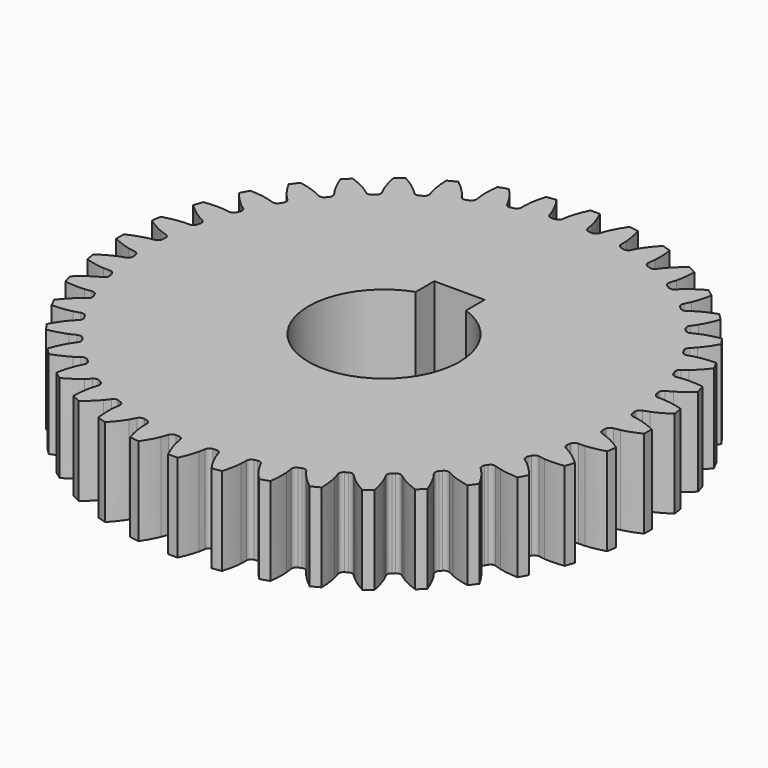
from build123d import *

# Parameters (mm, degrees)
PAD_DEPTH    = 7
POCKET_DEPTH = 7.001


with BuildPart() as part:
    # InvoluteGear → Pad (new body)
    with BuildSketch(Plane.XY):
        with BuildLine():
            add(Edge.make_bspline(
                [(19.042473, -1.000978), (19.169169, -0.986018), (19.338507, -0.958425), (19.548431, -0.907939)],
                knots=[0, 0, 0, 0, 1, 1, 1, 1], degree=3))
            add(Edge.make_bspline(
                [(19.548431, -0.907939), (19.917143, -0.81916), (20.406916, -0.66089), (20.997074, -0.380116)],
                knots=[0, 0, 0, 0, 1, 1, 1, 1], degree=3))
            ThreePointArc((20.997074, -0.380116), (21.000257, 0.0001), (20.996556, 0.380311))
            add(Edge.make_bspline(
                [(20.996556, 0.380311), (20.406916, 0.66089), (19.917143, 0.81916), (19.548431, 0.907939)],
                knots=[0, 0, 0, 0, 1, 1, 1, 1], degree=3))
            add(Edge.make_bspline(
                [(19.548431, 0.907939), (19.338507, 0.958425), (19.169169, 0.986018), (19.04253, 1.000968)],
                knots=[0, 0, 0, 0, 1, 1, 1, 1], degree=3))
            ThreePointArc((19.04253, 1.000968), (18.807705, 1.114267), (18.701175, 1.352239))
            ThreePointArc((18.701175, 1.352239), (18.6922, 1.471108), (18.682469, 1.589918))
            ThreePointArc((18.682469, 1.589918), (18.750446, 1.841599), (18.964616, 1.990245))
            add(Edge.make_bspline(
                [(18.964616, 1.990245), (19.087412, 2.02484), (19.250348, 2.078584), (19.44979, 2.161288)],
                knots=[0, 0, 0, 0, 1, 1, 1, 1], degree=3))
            add(Edge.make_bspline(
                [(19.44979, 2.161288), (19.800075, 2.306653), (20.259059, 2.539592), (20.798029, 2.90923)],
                knots=[0, 0, 0, 0, 1, 1, 1, 1], degree=3))
            ThreePointArc((20.798029, 2.90923), (20.741694, 3.285263), (20.67856, 3.660214))
            add(Edge.make_bspline(
                [(20.67856, 3.660214), (20.052287, 3.845098), (19.543786, 3.924803), (19.165724, 3.954809)],
                knots=[0, 0, 0, 0, 1, 1, 1, 1], degree=3))
            add(Edge.make_bspline(
                [(19.165724, 3.954809), (18.950487, 3.971834), (18.778918, 3.972597), (18.651499, 3.967552)],
                knots=[0, 0, 0, 0, 1, 1, 1, 1], degree=3))
            ThreePointArc((18.651499, 3.967552), (18.401841, 4.042722), (18.259396, 4.261099))
            ThreePointArc((18.259396, 4.261099), (18.231936, 4.377101), (18.203739, 4.492925))
            ThreePointArc((18.203739, 4.492925), (18.231507, 4.752142), (18.419787, 4.932461))
            add(Edge.make_bspline(
                [(18.419787, 4.932461), (18.53566, 4.98584), (18.688182, 5.064411), (18.872231, 5.177296)],
                knots=[0, 0, 0, 0, 1, 1, 1, 1], degree=3))
            add(Edge.make_bspline(
                [(18.872231, 5.177296), (19.195463, 5.375668), (19.612356, 5.677541), (20.086867, 6.126941)],
                knots=[0, 0, 0, 0, 1, 1, 1, 1], degree=3))
            ThreePointArc((20.086867, 6.126941), (19.972401, 6.489531), (19.851389, 6.84999))
            add(Edge.make_bspline(
                [(19.851389, 6.84999), (19.203904, 6.934627), (18.689195, 6.933803), (18.311094, 6.904298)],
                knots=[0, 0, 0, 0, 1, 1, 1, 1], degree=3))
            add(Edge.make_bspline(
                [(18.311094, 6.904298), (18.095843, 6.887443), (17.926267, 6.861358), (17.801206, 6.836442)],
                knots=[0, 0, 0, 0, 1, 1, 1, 1], degree=3))
            ThreePointArc((17.801206, 6.836442), (17.542863, 6.871631), (17.36801, 7.065037))
            ThreePointArc((17.36801, 7.065037), (17.322741, 7.175314), (17.276773, 7.285302))
            ThreePointArc((17.276773, 7.285302), (17.263649, 7.545671), (17.421402, 7.753224))
            add(Edge.make_bspline(
                [(17.421402, 7.753224), (17.527498, 7.824072), (17.665851, 7.925536), (17.829975, 8.065822)],
                knots=[0, 0, 0, 0, 1, 1, 1, 1], degree=3))
            add(Edge.make_bspline(
                [(17.829975, 8.065822), (18.118196, 8.312317), (18.482733, 8.675689), (18.881099, 9.193786)],
                knots=[0, 0, 0, 0, 1, 1, 1, 1], degree=3))
            ThreePointArc((18.881099, 9.193786), (18.711321, 9.534006), (18.535411, 9.871097))
            add(Edge.make_bspline(
                [(18.535411, 9.871097), (17.882658, 9.853403), (17.374414, 9.772071), (17.005584, 9.683781)],
                knots=[0, 0, 0, 0, 1, 1, 1, 1], degree=3))
            add(Edge.make_bspline(
                [(17.005584, 9.683781), (16.79562, 9.633461), (16.632212, 9.581169), (16.512588, 9.536996)],
                knots=[0, 0, 0, 0, 1, 1, 1, 1], degree=3))
            ThreePointArc((16.512588, 9.536996), (16.251921, 9.531339), (16.048965, 9.69501))
            ThreePointArc((16.048965, 9.69501), (15.987003, 9.796848), (15.924395, 9.898291))
            ThreePointArc((15.924395, 9.898291), (15.870701, 10.153401), (15.994044, 10.383077))
            add(Edge.make_bspline(
                [(15.994044, 10.383077), (16.087751, 10.46965), (16.208529, 10.591507), (16.348686, 10.755741)],
                knots=[0, 0, 0, 0, 1, 1, 1, 1], degree=3))
            add(Edge.make_bspline(
                [(16.348686, 10.755741), (16.594798, 11.044289), (16.898003, 11.460213), (17.210417, 12.03425)],
                knots=[0, 0, 0, 0, 1, 1, 1, 1], degree=3))
            ThreePointArc((17.210417, 12.03425), (16.989506, 12.343722), (16.763029, 12.649144))
            add(Edge.make_bspline(
                [(16.763029, 12.649144), (16.121081, 12.529555), (15.631817, 12.369718), (15.28134, 12.224817)],
                knots=[0, 0, 0, 0, 1, 1, 1, 1], degree=3))
            add(Edge.make_bspline(
                [(15.28134, 12.224817), (15.081833, 12.142271), (14.928617, 12.06506), (14.817376, 12.002718)],
                knots=[0, 0, 0, 0, 1, 1, 1, 1], degree=3))
            ThreePointArc((14.817376, 12.002718), (14.560803, 11.956353), (14.334742, 12.086259))
            ThreePointArc((14.334742, 12.086259), (14.257612, 12.177151), (14.179905, 12.26755))
            ThreePointArc((14.179905, 12.26755), (14.086965, 12.51112), (14.17286, 12.757263))
            add(Edge.make_bspline(
                [(14.17286, 12.757263), (14.25187, 12.857429), (14.352098, 12.996681), (14.464838, 13.180818)],
                knots=[0, 0, 0, 0, 1, 1, 1, 1], degree=3))
            add(Edge.make_bspline(
                [(14.464838, 13.180818), (14.662781, 13.504314), (14.897188, 13.962549), (15.115956, 14.578391)],
                knots=[0, 0, 0, 0, 1, 1, 1, 1], degree=3))
            ThreePointArc((15.115956, 14.578391), (14.849354, 14.849495), (14.577886, 15.115728))
            add(Edge.make_bspline(
                [(14.577886, 15.115728), (13.962549, 14.897188), (13.504314, 14.662781), (13.180818, 14.464838)],
                knots=[0, 0, 0, 0, 1, 1, 1, 1], degree=3))
            add(Edge.make_bspline(
                [(13.180818, 14.464838), (12.996681, 14.352098), (12.857429, 14.25187), (12.757311, 14.172893)],
                knots=[0, 0, 0, 0, 1, 1, 1, 1], degree=3))
            ThreePointArc((12.757311, 14.172893), (12.51115, 14.086962), (12.26755, 14.179905))
            ThreePointArc((12.26755, 14.179905), (12.177151, 14.257612), (12.086259, 14.334742))
            ThreePointArc((12.086259, 14.334742), (11.956361, 14.560775), (12.002693, 14.817324))
            add(Edge.make_bspline(
                [(12.002693, 14.817324), (12.06506, 14.928617), (12.142271, 15.081833), (12.224817, 15.28134)],
                knots=[0, 0, 0, 0, 1, 1, 1, 1], degree=3))
            add(Edge.make_bspline(
                [(12.224817, 15.28134), (12.369718, 15.631817), (12.529555, 16.121081), (12.649291, 16.763563)],
                knots=[0, 0, 0, 0, 1, 1, 1, 1], degree=3))
            ThreePointArc((12.649291, 16.763563), (12.343561, 16.989624), (12.033788, 17.210112))
            add(Edge.make_bspline(
                [(12.033788, 17.210112), (11.460213, 16.898003), (11.044289, 16.594798), (10.755741, 16.348686)],
                knots=[0, 0, 0, 0, 1, 1, 1, 1], degree=3))
            add(Edge.make_bspline(
                [(10.755741, 16.348686), (10.591507, 16.208529), (10.46965, 16.087751), (10.383118, 15.994084)],
                knots=[0, 0, 0, 0, 1, 1, 1, 1], degree=3))
            ThreePointArc((10.383118, 15.994084), (10.153431, 15.870703), (9.898291, 15.924395))
            ThreePointArc((9.898291, 15.924395), (9.796848, 15.987003), (9.69501, 16.048965))
            ThreePointArc((9.69501, 16.048965), (9.531351, 16.251894), (9.536979, 16.512533))
            add(Edge.make_bspline(
                [(9.536979, 16.512533), (9.581169, 16.632212), (9.633461, 16.79562), (9.683781, 17.005584)],
                knots=[0, 0, 0, 0, 1, 1, 1, 1], degree=3))
            add(Edge.make_bspline(
                [(9.683781, 17.005584), (9.772071, 17.374414), (9.853403, 17.882658), (9.871158, 18.535961)],
                knots=[0, 0, 0, 0, 1, 1, 1, 1], degree=3))
            ThreePointArc((9.871158, 18.535961), (9.533828, 18.711412), (9.193377, 18.880726))
            add(Edge.make_bspline(
                [(9.193377, 18.880726), (8.675689, 18.482733), (8.312317, 18.118196), (8.065822, 17.829975)],
                knots=[0, 0, 0, 0, 1, 1, 1, 1], degree=3))
            add(Edge.make_bspline(
                [(8.065822, 17.829975), (7.925536, 17.665851), (7.824072, 17.527498), (7.753259, 17.421448)],
                knots=[0, 0, 0, 0, 1, 1, 1, 1], degree=3))
            ThreePointArc((7.753259, 17.421448), (7.5457, 17.263655), (7.285302, 17.276773))
            ThreePointArc((7.285302, 17.276773), (7.175314, 17.322741), (7.065037, 17.36801))
            ThreePointArc((7.065037, 17.36801), (6.871648, 17.542838), (6.836434, 17.801148))
            add(Edge.make_bspline(
                [(6.836434, 17.801148), (6.861358, 17.926267), (6.887443, 18.095843), (6.904298, 18.311094)],
                knots=[0, 0, 0, 0, 1, 1, 1, 1], degree=3))
            add(Edge.make_bspline(
                [(6.904298, 18.311094), (6.933803, 18.689195), (6.934627, 19.203904), (6.849965, 19.851942)],
                knots=[0, 0, 0, 0, 1, 1, 1, 1], degree=3))
            ThreePointArc((6.849965, 19.851942), (6.489341, 19.972462), (6.126595, 20.086434))
            add(Edge.make_bspline(
                [(6.126595, 20.086434), (5.677541, 19.612356), (5.375668, 19.195463), (5.177296, 18.872231)],
                knots=[0, 0, 0, 0, 1, 1, 1, 1], degree=3))
            add(Edge.make_bspline(
                [(5.177296, 18.872231), (5.064411, 18.688182), (4.98584, 18.53566), (4.932489, 18.419838)],
                knots=[0, 0, 0, 0, 1, 1, 1, 1], degree=3))
            ThreePointArc((4.932489, 18.419838), (4.75217, 18.231518), (4.492925, 18.203739))
            ThreePointArc((4.492925, 18.203739), (4.377101, 18.231936), (4.261099, 18.259396))
            ThreePointArc((4.261099, 18.259396), (4.042742, 18.401819), (3.967553, 18.651441))
            add(Edge.make_bspline(
                [(3.967553, 18.651441), (3.972597, 18.778918), (3.971834, 18.950487), (3.954809, 19.165724)],
                knots=[0, 0, 0, 0, 1, 1, 1, 1], degree=3))
            add(Edge.make_bspline(
                [(3.954809, 19.165724), (3.924803, 19.543786), (3.845098, 20.052287), (3.660102, 20.679102)],
                knots=[0, 0, 0, 0, 1, 1, 1, 1], degree=3))
            ThreePointArc((3.660102, 20.679102), (3.285065, 20.741725), (2.908956, 20.797547))
            add(Edge.make_bspline(
                [(2.908956, 20.797547), (2.539592, 20.259059), (2.306653, 19.800075), (2.161288, 19.44979)],
                knots=[0, 0, 0, 0, 1, 1, 1, 1], degree=3))
            add(Edge.make_bspline(
                [(2.161288, 19.44979), (2.078584, 19.250348), (2.02484, 19.087412), (1.990264, 18.96467)],
                knots=[0, 0, 0, 0, 1, 1, 1, 1], degree=3))
            ThreePointArc((1.990264, 18.96467), (1.841625, 18.750461), (1.589918, 18.682469))
            ThreePointArc((1.589918, 18.682469), (1.471108, 18.6922), (1.352239, 18.701175))
            ThreePointArc((1.352239, 18.701175), (1.11429, 18.807687), (1.000978, 19.042473))
            add(Edge.make_bspline(
                [(1.000978, 19.042473), (0.986018, 19.169169), (0.958425, 19.338507), (0.907939, 19.548431)],
                knots=[0, 0, 0, 0, 1, 1, 1, 1], degree=3))
            add(Edge.make_bspline(
                [(0.907939, 19.548431), (0.81916, 19.917143), (0.66089, 20.406916), (0.380116, 20.997074)],
                knots=[0, 0, 0, 0, 1, 1, 1, 1], degree=3))
            ThreePointArc((0.380116, 20.997074), (-0.0001, 21.000257), (-0.380311, 20.996556))
            add(Edge.make_bspline(
                [(-0.380311, 20.996556), (-0.66089, 20.406916), (-0.81916, 19.917143), (-0.907939, 19.548431)],
                knots=[0, 0, 0, 0, 1, 1, 1, 1], degree=3))
            add(Edge.make_bspline(
                [(-0.907939, 19.548431), (-0.958425, 19.338507), (-0.986018, 19.169169), (-1.000968, 19.04253)],
                knots=[0, 0, 0, 0, 1, 1, 1, 1], degree=3))
            ThreePointArc((-1.000968, 19.04253), (-1.114267, 18.807705), (-1.352239, 18.701175))
            ThreePointArc((-1.352239, 18.701175), (-1.471108, 18.6922), (-1.589918, 18.682469))
            ThreePointArc((-1.589918, 18.682469), (-1.841599, 18.750446), (-1.990245, 18.964616))
            add(Edge.make_bspline(
                [(-1.990245, 18.964616), (-2.02484, 19.087412), (-2.078584, 19.250348), (-2.161288, 19.44979)],
                knots=[0, 0, 0, 0, 1, 1, 1, 1], degree=3))
            add(Edge.make_bspline(
                [(-2.161288, 19.44979), (-2.306653, 19.800075), (-2.539592, 20.259059), (-2.90923, 20.798029)],
                knots=[0, 0, 0, 0, 1, 1, 1, 1], degree=3))
            ThreePointArc((-2.90923, 20.798029), (-3.285263, 20.741694), (-3.660214, 20.67856))
            add(Edge.make_bspline(
                [(-3.660214, 20.67856), (-3.845098, 20.052287), (-3.924803, 19.543786), (-3.954809, 19.165724)],
                knots=[0, 0, 0, 0, 1, 1, 1, 1], degree=3))
            add(Edge.make_bspline(
                [(-3.954809, 19.165724), (-3.971834, 18.950487), (-3.972597, 18.778918), (-3.967552, 18.651499)],
                knots=[0, 0, 0, 0, 1, 1, 1, 1], degree=3))
            ThreePointArc((-3.967552, 18.651499), (-4.042722, 18.401841), (-4.261099, 18.259396))
            ThreePointArc((-4.261099, 18.259396), (-4.377101, 18.231936), (-4.492925, 18.203739))
            ThreePointArc((-4.492925, 18.203739), (-4.752142, 18.231507), (-4.932461, 18.419787))
            add(Edge.make_bspline(
                [(-4.932461, 18.419787), (-4.98584, 18.53566), (-5.064411, 18.688182), (-5.177296, 18.872231)],
                knots=[0, 0, 0, 0, 1, 1, 1, 1], degree=3))
            add(Edge.make_bspline(
                [(-5.177296, 18.872231), (-5.375668, 19.195463), (-5.677541, 19.612356), (-6.126941, 20.086867)],
                knots=[0, 0, 0, 0, 1, 1, 1, 1], degree=3))
            ThreePointArc((-6.126941, 20.086867), (-6.489531, 19.972401), (-6.84999, 19.851389))
            add(Edge.make_bspline(
                [(-6.84999, 19.851389), (-6.934627, 19.203904), (-6.933803, 18.689195), (-6.904298, 18.311094)],
                knots=[0, 0, 0, 0, 1, 1, 1, 1], degree=3))
            add(Edge.make_bspline(
                [(-6.904298, 18.311094), (-6.887443, 18.095843), (-6.861358, 17.926267), (-6.836442, 17.801206)],
                knots=[0, 0, 0, 0, 1, 1, 1, 1], degree=3))
            ThreePointArc((-6.836442, 17.801206), (-6.871631, 17.542863), (-7.065037, 17.36801))
            ThreePointArc((-7.065037, 17.36801), (-7.175314, 17.322741), (-7.285302, 17.276773))
            ThreePointArc((-7.285302, 17.276773), (-7.545671, 17.263649), (-7.753224, 17.421402))
            add(Edge.make_bspline(
                [(-7.753224, 17.421402), (-7.824072, 17.527498), (-7.925536, 17.665851), (-8.065822, 17.829975)],
                knots=[0, 0, 0, 0, 1, 1, 1, 1], degree=3))
            add(Edge.make_bspline(
                [(-8.065822, 17.829975), (-8.312317, 18.118196), (-8.675689, 18.482733), (-9.193786, 18.881099)],
                knots=[0, 0, 0, 0, 1, 1, 1, 1], degree=3))
            ThreePointArc((-9.193786, 18.881099), (-9.534006, 18.711321), (-9.871097, 18.535411))
            add(Edge.make_bspline(
                [(-9.871097, 18.535411), (-9.853403, 17.882658), (-9.772071, 17.374414), (-9.683781, 17.005584)],
                knots=[0, 0, 0, 0, 1, 1, 1, 1], degree=3))
            add(Edge.make_bspline(
                [(-9.683781, 17.005584), (-9.633461, 16.79562), (-9.581169, 16.632212), (-9.536996, 16.512588)],
                knots=[0, 0, 0, 0, 1, 1, 1, 1], degree=3))
            ThreePointArc((-9.536996, 16.512588), (-9.531339, 16.251921), (-9.69501, 16.048965))
            ThreePointArc((-9.69501, 16.048965), (-9.796848, 15.987003), (-9.898291, 15.924395))
            ThreePointArc((-9.898291, 15.924395), (-10.153401, 15.870701), (-10.383077, 15.994044))
            add(Edge.make_bspline(
                [(-10.383077, 15.994044), (-10.46965, 16.087751), (-10.591507, 16.208529), (-10.755741, 16.348686)],
                knots=[0, 0, 0, 0, 1, 1, 1, 1], degree=3))
            add(Edge.make_bspline(
                [(-10.755741, 16.348686), (-11.044289, 16.594798), (-11.460213, 16.898003), (-12.03425, 17.210417)],
                knots=[0, 0, 0, 0, 1, 1, 1, 1], degree=3))
            ThreePointArc((-12.03425, 17.210417), (-12.343722, 16.989506), (-12.649144, 16.763029))
            add(Edge.make_bspline(
                [(-12.649144, 16.763029), (-12.529555, 16.121081), (-12.369718, 15.631817), (-12.224817, 15.28134)],
                knots=[0, 0, 0, 0, 1, 1, 1, 1], degree=3))
            add(Edge.make_bspline(
                [(-12.224817, 15.28134), (-12.142271, 15.081833), (-12.06506, 14.928617), (-12.002718, 14.817376)],
                knots=[0, 0, 0, 0, 1, 1, 1, 1], degree=3))
            ThreePointArc((-12.002718, 14.817376), (-11.956353, 14.560803), (-12.086259, 14.334742))
            ThreePointArc((-12.086259, 14.334742), (-12.177151, 14.257612), (-12.26755, 14.179905))
            ThreePointArc((-12.26755, 14.179905), (-12.51112, 14.086965), (-12.757263, 14.17286))
            add(Edge.make_bspline(
                [(-12.757263, 14.17286), (-12.857429, 14.25187), (-12.996681, 14.352098), (-13.180818, 14.464838)],
                knots=[0, 0, 0, 0, 1, 1, 1, 1], degree=3))
            add(Edge.make_bspline(
                [(-13.180818, 14.464838), (-13.504314, 14.662781), (-13.962549, 14.897188), (-14.578391, 15.115956)],
                knots=[0, 0, 0, 0, 1, 1, 1, 1], degree=3))
            ThreePointArc((-14.578391, 15.115956), (-14.849495, 14.849354), (-15.115728, 14.577886))
            add(Edge.make_bspline(
                [(-15.115728, 14.577886), (-14.897188, 13.962549), (-14.662781, 13.504314), (-14.464838, 13.180818)],
                knots=[0, 0, 0, 0, 1, 1, 1, 1], degree=3))
            add(Edge.make_bspline(
                [(-14.464838, 13.180818), (-14.352098, 12.996681), (-14.25187, 12.857429), (-14.172893, 12.757311)],
                knots=[0, 0, 0, 0, 1, 1, 1, 1], degree=3))
            ThreePointArc((-14.172893, 12.757311), (-14.086962, 12.51115), (-14.179905, 12.26755))
            ThreePointArc((-14.179905, 12.26755), (-14.257612, 12.177151), (-14.334742, 12.086259))
            ThreePointArc((-14.334742, 12.086259), (-14.560775, 11.956361), (-14.817324, 12.002693))
            add(Edge.make_bspline(
                [(-14.817324, 12.002693), (-14.928617, 12.06506), (-15.081833, 12.142271), (-15.28134, 12.224817)],
                knots=[0, 0, 0, 0, 1, 1, 1, 1], degree=3))
            add(Edge.make_bspline(
                [(-15.28134, 12.224817), (-15.631817, 12.369718), (-16.121081, 12.529555), (-16.763563, 12.649291)],
                knots=[0, 0, 0, 0, 1, 1, 1, 1], degree=3))
            ThreePointArc((-16.763563, 12.649291), (-16.989624, 12.343561), (-17.210112, 12.033788))
            add(Edge.make_bspline(
                [(-17.210112, 12.033788), (-16.898003, 11.460213), (-16.594798, 11.044289), (-16.348686, 10.755741)],
                knots=[0, 0, 0, 0, 1, 1, 1, 1], degree=3))
            add(Edge.make_bspline(
                [(-16.348686, 10.755741), (-16.208529, 10.591507), (-16.087751, 10.46965), (-15.994084, 10.383118)],
                knots=[0, 0, 0, 0, 1, 1, 1, 1], degree=3))
            ThreePointArc((-15.994084, 10.383118), (-15.870703, 10.153431), (-15.924395, 9.898291))
            ThreePointArc((-15.924395, 9.898291), (-15.987003, 9.796848), (-16.048965, 9.69501))
            ThreePointArc((-16.048965, 9.69501), (-16.251894, 9.531351), (-16.512533, 9.536979))
            add(Edge.make_bspline(
                [(-16.512533, 9.536979), (-16.632212, 9.581169), (-16.79562, 9.633461), (-17.005584, 9.683781)],
                knots=[0, 0, 0, 0, 1, 1, 1, 1], degree=3))
            add(Edge.make_bspline(
                [(-17.005584, 9.683781), (-17.374414, 9.772071), (-17.882658, 9.853403), (-18.535961, 9.871158)],
                knots=[0, 0, 0, 0, 1, 1, 1, 1], degree=3))
            ThreePointArc((-18.535961, 9.871158), (-18.711412, 9.533828), (-18.880726, 9.193377))
            add(Edge.make_bspline(
                [(-18.880726, 9.193377), (-18.482733, 8.675689), (-18.118196, 8.312317), (-17.829975, 8.065822)],
                knots=[0, 0, 0, 0, 1, 1, 1, 1], degree=3))
            add(Edge.make_bspline(
                [(-17.829975, 8.065822), (-17.665851, 7.925536), (-17.527498, 7.824072), (-17.421448, 7.753259)],
                knots=[0, 0, 0, 0, 1, 1, 1, 1], degree=3))
            ThreePointArc((-17.421448, 7.753259), (-17.263655, 7.5457), (-17.276773, 7.285302))
            ThreePointArc((-17.276773, 7.285302), (-17.322741, 7.175314), (-17.36801, 7.065037))
            ThreePointArc((-17.36801, 7.065037), (-17.542838, 6.871648), (-17.801148, 6.836434))
            add(Edge.make_bspline(
                [(-17.801148, 6.836434), (-17.926267, 6.861358), (-18.095843, 6.887443), (-18.311094, 6.904298)],
                knots=[0, 0, 0, 0, 1, 1, 1, 1], degree=3))
            add(Edge.make_bspline(
                [(-18.311094, 6.904298), (-18.689195, 6.933803), (-19.203904, 6.934627), (-19.851942, 6.849965)],
                knots=[0, 0, 0, 0, 1, 1, 1, 1], degree=3))
            ThreePointArc((-19.851942, 6.849965), (-19.972462, 6.489341), (-20.086434, 6.126595))
            add(Edge.make_bspline(
                [(-20.086434, 6.126595), (-19.612356, 5.677541), (-19.195463, 5.375668), (-18.872231, 5.177296)],
                knots=[0, 0, 0, 0, 1, 1, 1, 1], degree=3))
            add(Edge.make_bspline(
                [(-18.872231, 5.177296), (-18.688182, 5.064411), (-18.53566, 4.98584), (-18.419838, 4.932489)],
                knots=[0, 0, 0, 0, 1, 1, 1, 1], degree=3))
            ThreePointArc((-18.419838, 4.932489), (-18.231518, 4.75217), (-18.203739, 4.492925))
            ThreePointArc((-18.203739, 4.492925), (-18.231936, 4.377101), (-18.259396, 4.261099))
            ThreePointArc((-18.259396, 4.261099), (-18.401819, 4.042742), (-18.651441, 3.967553))
            add(Edge.make_bspline(
                [(-18.651441, 3.967553), (-18.778918, 3.972597), (-18.950487, 3.971834), (-19.165724, 3.954809)],
                knots=[0, 0, 0, 0, 1, 1, 1, 1], degree=3))
            add(Edge.make_bspline(
                [(-19.165724, 3.954809), (-19.543786, 3.924803), (-20.052287, 3.845098), (-20.679102, 3.660102)],
                knots=[0, 0, 0, 0, 1, 1, 1, 1], degree=3))
            ThreePointArc((-20.679102, 3.660102), (-20.741725, 3.285065), (-20.797547, 2.908956))
            add(Edge.make_bspline(
                [(-20.797547, 2.908956), (-20.259059, 2.539592), (-19.800075, 2.306653), (-19.44979, 2.161288)],
                knots=[0, 0, 0, 0, 1, 1, 1, 1], degree=3))
            add(Edge.make_bspline(
                [(-19.44979, 2.161288), (-19.250348, 2.078584), (-19.087412, 2.02484), (-18.96467, 1.990264)],
                knots=[0, 0, 0, 0, 1, 1, 1, 1], degree=3))
            ThreePointArc((-18.96467, 1.990264), (-18.750461, 1.841625), (-18.682469, 1.589918))
            ThreePointArc((-18.682469, 1.589918), (-18.6922, 1.471108), (-18.701175, 1.352239))
            ThreePointArc((-18.701175, 1.352239), (-18.807687, 1.11429), (-19.042473, 1.000978))
            add(Edge.make_bspline(
                [(-19.042473, 1.000978), (-19.169169, 0.986018), (-19.338507, 0.958425), (-19.548431, 0.907939)],
                knots=[0, 0, 0, 0, 1, 1, 1, 1], degree=3))
            add(Edge.make_bspline(
                [(-19.548431, 0.907939), (-19.917143, 0.81916), (-20.406916, 0.66089), (-20.997074, 0.380116)],
                knots=[0, 0, 0, 0, 1, 1, 1, 1], degree=3))
            ThreePointArc((-20.997074, 0.380116), (-21.000257, -0.0001), (-20.996556, -0.380311))
            add(Edge.make_bspline(
                [(-20.996556, -0.380311), (-20.406916, -0.66089), (-19.917143, -0.81916), (-19.548431, -0.907939)],
                knots=[0, 0, 0, 0, 1, 1, 1, 1], degree=3))
            add(Edge.make_bspline(
                [(-19.548431, -0.907939), (-19.338507, -0.958425), (-19.169169, -0.986018), (-19.04253, -1.000968)],
                knots=[0, 0, 0, 0, 1, 1, 1, 1], degree=3))
            ThreePointArc((-19.04253, -1.000968), (-18.807705, -1.114267), (-18.701175, -1.352239))
            ThreePointArc((-18.701175, -1.352239), (-18.6922, -1.471108), (-18.682469, -1.589918))
            ThreePointArc((-18.682469, -1.589918), (-18.750446, -1.841599), (-18.964616, -1.990245))
            add(Edge.make_bspline(
                [(-18.964616, -1.990245), (-19.087412, -2.02484), (-19.250348, -2.078584), (-19.44979, -2.161288)],
                knots=[0, 0, 0, 0, 1, 1, 1, 1], degree=3))
            add(Edge.make_bspline(
                [(-19.44979, -2.161288), (-19.800075, -2.306653), (-20.259059, -2.539592), (-20.798029, -2.90923)],
                knots=[0, 0, 0, 0, 1, 1, 1, 1], degree=3))
            ThreePointArc((-20.798029, -2.90923), (-20.741694, -3.285263), (-20.67856, -3.660214))
            add(Edge.make_bspline(
                [(-20.67856, -3.660214), (-20.052287, -3.845098), (-19.543786, -3.924803), (-19.165724, -3.954809)],
                knots=[0, 0, 0, 0, 1, 1, 1, 1], degree=3))
            add(Edge.make_bspline(
                [(-19.165724, -3.954809), (-18.950487, -3.971834), (-18.778918, -3.972597), (-18.651499, -3.967552)],
                knots=[0, 0, 0, 0, 1, 1, 1, 1], degree=3))
            ThreePointArc((-18.651499, -3.967552), (-18.401841, -4.042722), (-18.259396, -4.261099))
            ThreePointArc((-18.259396, -4.261099), (-18.231936, -4.377101), (-18.203739, -4.492925))
            ThreePointArc((-18.203739, -4.492925), (-18.231507, -4.752142), (-18.419787, -4.932461))
            add(Edge.make_bspline(
                [(-18.419787, -4.932461), (-18.53566, -4.98584), (-18.688182, -5.064411), (-18.872231, -5.177296)],
                knots=[0, 0, 0, 0, 1, 1, 1, 1], degree=3))
            add(Edge.make_bspline(
                [(-18.872231, -5.177296), (-19.195463, -5.375668), (-19.612356, -5.677541), (-20.086867, -6.126941)],
                knots=[0, 0, 0, 0, 1, 1, 1, 1], degree=3))
            ThreePointArc((-20.086867, -6.126941), (-19.972401, -6.489531), (-19.851389, -6.84999))
            add(Edge.make_bspline(
                [(-19.851389, -6.84999), (-19.203904, -6.934627), (-18.689195, -6.933803), (-18.311094, -6.904298)],
                knots=[0, 0, 0, 0, 1, 1, 1, 1], degree=3))
            add(Edge.make_bspline(
                [(-18.311094, -6.904298), (-18.095843, -6.887443), (-17.926267, -6.861358), (-17.801206, -6.836442)],
                knots=[0, 0, 0, 0, 1, 1, 1, 1], degree=3))
            ThreePointArc((-17.801206, -6.836442), (-17.542863, -6.871631), (-17.36801, -7.065037))
            ThreePointArc((-17.36801, -7.065037), (-17.322741, -7.175314), (-17.276773, -7.285302))
            ThreePointArc((-17.276773, -7.285302), (-17.263649, -7.545671), (-17.421402, -7.753224))
            add(Edge.make_bspline(
                [(-17.421402, -7.753224), (-17.527498, -7.824072), (-17.665851, -7.925536), (-17.829975, -8.065822)],
                knots=[0, 0, 0, 0, 1, 1, 1, 1], degree=3))
            add(Edge.make_bspline(
                [(-17.829975, -8.065822), (-18.118196, -8.312317), (-18.482733, -8.675689), (-18.881099, -9.193786)],
                knots=[0, 0, 0, 0, 1, 1, 1, 1], degree=3))
            ThreePointArc((-18.881099, -9.193786), (-18.711321, -9.534006), (-18.535411, -9.871097))
            add(Edge.make_bspline(
                [(-18.535411, -9.871097), (-17.882658, -9.853403), (-17.374414, -9.772071), (-17.005584, -9.683781)],
                knots=[0, 0, 0, 0, 1, 1, 1, 1], degree=3))
            add(Edge.make_bspline(
                [(-17.005584, -9.683781), (-16.79562, -9.633461), (-16.632212, -9.581169), (-16.512588, -9.536996)],
                knots=[0, 0, 0, 0, 1, 1, 1, 1], degree=3))
            ThreePointArc((-16.512588, -9.536996), (-16.251921, -9.531339), (-16.048965, -9.69501))
            ThreePointArc((-16.048965, -9.69501), (-15.987003, -9.796848), (-15.924395, -9.898291))
            ThreePointArc((-15.924395, -9.898291), (-15.870701, -10.153401), (-15.994044, -10.383077))
            add(Edge.make_bspline(
                [(-15.994044, -10.383077), (-16.087751, -10.46965), (-16.208529, -10.591507), (-16.348686, -10.755741)],
                knots=[0, 0, 0, 0, 1, 1, 1, 1], degree=3))
            add(Edge.make_bspline(
                [(-16.348686, -10.755741), (-16.594798, -11.044289), (-16.898003, -11.460213), (-17.210417, -12.03425)],
                knots=[0, 0, 0, 0, 1, 1, 1, 1], degree=3))
            ThreePointArc((-17.210417, -12.03425), (-16.989506, -12.343722), (-16.763029, -12.649144))
            add(Edge.make_bspline(
                [(-16.763029, -12.649144), (-16.121081, -12.529555), (-15.631817, -12.369718), (-15.28134, -12.224817)],
                knots=[0, 0, 0, 0, 1, 1, 1, 1], degree=3))
            add(Edge.make_bspline(
                [(-15.28134, -12.224817), (-15.081833, -12.142271), (-14.928617, -12.06506), (-14.817376, -12.002718)],
                knots=[0, 0, 0, 0, 1, 1, 1, 1], degree=3))
            ThreePointArc((-14.817376, -12.002718), (-14.560803, -11.956353), (-14.334742, -12.086259))
            ThreePointArc((-14.334742, -12.086259), (-14.257612, -12.177151), (-14.179905, -12.26755))
            ThreePointArc((-14.179905, -12.26755), (-14.086965, -12.51112), (-14.17286, -12.757263))
            add(Edge.make_bspline(
                [(-14.17286, -12.757263), (-14.25187, -12.857429), (-14.352098, -12.996681), (-14.464838, -13.180818)],
                knots=[0, 0, 0, 0, 1, 1, 1, 1], degree=3))
            add(Edge.make_bspline(
                [(-14.464838, -13.180818), (-14.662781, -13.504314), (-14.897188, -13.962549), (-15.115956, -14.578391)],
                knots=[0, 0, 0, 0, 1, 1, 1, 1], degree=3))
            ThreePointArc((-15.115956, -14.578391), (-14.849354, -14.849495), (-14.577886, -15.115728))
            add(Edge.make_bspline(
                [(-14.577886, -15.115728), (-13.962549, -14.897188), (-13.504314, -14.662781), (-13.180818, -14.464838)],
                knots=[0, 0, 0, 0, 1, 1, 1, 1], degree=3))
            add(Edge.make_bspline(
                [(-13.180818, -14.464838), (-12.996681, -14.352098), (-12.857429, -14.25187), (-12.757311, -14.172893)],
                knots=[0, 0, 0, 0, 1, 1, 1, 1], degree=3))
            ThreePointArc((-12.757311, -14.172893), (-12.51115, -14.086962), (-12.26755, -14.179905))
            ThreePointArc((-12.26755, -14.179905), (-12.177151, -14.257612), (-12.086259, -14.334742))
            ThreePointArc((-12.086259, -14.334742), (-11.956361, -14.560775), (-12.002693, -14.817324))
            add(Edge.make_bspline(
                [(-12.002693, -14.817324), (-12.06506, -14.928617), (-12.142271, -15.081833), (-12.224817, -15.28134)],
                knots=[0, 0, 0, 0, 1, 1, 1, 1], degree=3))
            add(Edge.make_bspline(
                [(-12.224817, -15.28134), (-12.369718, -15.631817), (-12.529555, -16.121081), (-12.649291, -16.763563)],
                knots=[0, 0, 0, 0, 1, 1, 1, 1], degree=3))
            ThreePointArc((-12.649291, -16.763563), (-12.343561, -16.989624), (-12.033788, -17.210112))
            add(Edge.make_bspline(
                [(-12.033788, -17.210112), (-11.460213, -16.898003), (-11.044289, -16.594798), (-10.755741, -16.348686)],
                knots=[0, 0, 0, 0, 1, 1, 1, 1], degree=3))
            add(Edge.make_bspline(
                [(-10.755741, -16.348686), (-10.591507, -16.208529), (-10.46965, -16.087751), (-10.383118, -15.994084)],
                knots=[0, 0, 0, 0, 1, 1, 1, 1], degree=3))
            ThreePointArc((-10.383118, -15.994084), (-10.153431, -15.870703), (-9.898291, -15.924395))
            ThreePointArc((-9.898291, -15.924395), (-9.796848, -15.987003), (-9.69501, -16.048965))
            ThreePointArc((-9.69501, -16.048965), (-9.531351, -16.251894), (-9.536979, -16.512533))
            add(Edge.make_bspline(
                [(-9.536979, -16.512533), (-9.581169, -16.632212), (-9.633461, -16.79562), (-9.683781, -17.005584)],
                knots=[0, 0, 0, 0, 1, 1, 1, 1], degree=3))
            add(Edge.make_bspline(
                [(-9.683781, -17.005584), (-9.772071, -17.374414), (-9.853403, -17.882658), (-9.871158, -18.535961)],
                knots=[0, 0, 0, 0, 1, 1, 1, 1], degree=3))
            ThreePointArc((-9.871158, -18.535961), (-9.533828, -18.711412), (-9.193377, -18.880726))
            add(Edge.make_bspline(
                [(-9.193377, -18.880726), (-8.675689, -18.482733), (-8.312317, -18.118196), (-8.065822, -17.829975)],
                knots=[0, 0, 0, 0, 1, 1, 1, 1], degree=3))
            add(Edge.make_bspline(
                [(-8.065822, -17.829975), (-7.925536, -17.665851), (-7.824072, -17.527498), (-7.753259, -17.421448)],
                knots=[0, 0, 0, 0, 1, 1, 1, 1], degree=3))
            ThreePointArc((-7.753259, -17.421448), (-7.5457, -17.263655), (-7.285302, -17.276773))
            ThreePointArc((-7.285302, -17.276773), (-7.175314, -17.322741), (-7.065037, -17.36801))
            ThreePointArc((-7.065037, -17.36801), (-6.871648, -17.542838), (-6.836434, -17.801148))
            add(Edge.make_bspline(
                [(-6.836434, -17.801148), (-6.861358, -17.926267), (-6.887443, -18.095843), (-6.904298, -18.311094)],
                knots=[0, 0, 0, 0, 1, 1, 1, 1], degree=3))
            add(Edge.make_bspline(
                [(-6.904298, -18.311094), (-6.933803, -18.689195), (-6.934627, -19.203904), (-6.849965, -19.851942)],
                knots=[0, 0, 0, 0, 1, 1, 1, 1], degree=3))
            ThreePointArc((-6.849965, -19.851942), (-6.489341, -19.972462), (-6.126595, -20.086434))
            add(Edge.make_bspline(
                [(-6.126595, -20.086434), (-5.677541, -19.612356), (-5.375668, -19.195463), (-5.177296, -18.872231)],
                knots=[0, 0, 0, 0, 1, 1, 1, 1], degree=3))
            add(Edge.make_bspline(
                [(-5.177296, -18.872231), (-5.064411, -18.688182), (-4.98584, -18.53566), (-4.932489, -18.419838)],
                knots=[0, 0, 0, 0, 1, 1, 1, 1], degree=3))
            ThreePointArc((-4.932489, -18.419838), (-4.75217, -18.231518), (-4.492925, -18.203739))
            ThreePointArc((-4.492925, -18.203739), (-4.377101, -18.231936), (-4.261099, -18.259396))
            ThreePointArc((-4.261099, -18.259396), (-4.042742, -18.401819), (-3.967553, -18.651441))
            add(Edge.make_bspline(
                [(-3.967553, -18.651441), (-3.972597, -18.778918), (-3.971834, -18.950487), (-3.954809, -19.165724)],
                knots=[0, 0, 0, 0, 1, 1, 1, 1], degree=3))
            add(Edge.make_bspline(
                [(-3.954809, -19.165724), (-3.924803, -19.543786), (-3.845098, -20.052287), (-3.660102, -20.679102)],
                knots=[0, 0, 0, 0, 1, 1, 1, 1], degree=3))
            ThreePointArc((-3.660102, -20.679102), (-3.285065, -20.741725), (-2.908956, -20.797547))
            add(Edge.make_bspline(
                [(-2.908956, -20.797547), (-2.539592, -20.259059), (-2.306653, -19.800075), (-2.161288, -19.44979)],
                knots=[0, 0, 0, 0, 1, 1, 1, 1], degree=3))
            add(Edge.make_bspline(
                [(-2.161288, -19.44979), (-2.078584, -19.250348), (-2.02484, -19.087412), (-1.990264, -18.96467)],
                knots=[0, 0, 0, 0, 1, 1, 1, 1], degree=3))
            ThreePointArc((-1.990264, -18.96467), (-1.841625, -18.750461), (-1.589918, -18.682469))
            ThreePointArc((-1.589918, -18.682469), (-1.471108, -18.6922), (-1.352239, -18.701175))
            ThreePointArc((-1.352239, -18.701175), (-1.11429, -18.807687), (-1.000978, -19.042473))
            add(Edge.make_bspline(
                [(-1.000978, -19.042473), (-0.986018, -19.169169), (-0.958425, -19.338507), (-0.907939, -19.548431)],
                knots=[0, 0, 0, 0, 1, 1, 1, 1], degree=3))
            add(Edge.make_bspline(
                [(-0.907939, -19.548431), (-0.81916, -19.917143), (-0.66089, -20.406916), (-0.380116, -20.997074)],
                knots=[0, 0, 0, 0, 1, 1, 1, 1], degree=3))
            ThreePointArc((-0.380116, -20.997074), (0.0001, -21.000257), (0.380311, -20.996556))
            add(Edge.make_bspline(
                [(0.380311, -20.996556), (0.66089, -20.406916), (0.81916, -19.917143), (0.907939, -19.548431)],
                knots=[0, 0, 0, 0, 1, 1, 1, 1], degree=3))
            add(Edge.make_bspline(
                [(0.907939, -19.548431), (0.958425, -19.338507), (0.986018, -19.169169), (1.000968, -19.04253)],
                knots=[0, 0, 0, 0, 1, 1, 1, 1], degree=3))
            ThreePointArc((1.000968, -19.04253), (1.114267, -18.807705), (1.352239, -18.701175))
            ThreePointArc((1.352239, -18.701175), (1.471108, -18.6922), (1.589918, -18.682469))
            ThreePointArc((1.589918, -18.682469), (1.841599, -18.750446), (1.990245, -18.964616))
            add(Edge.make_bspline(
                [(1.990245, -18.964616), (2.02484, -19.087412), (2.078584, -19.250348), (2.161288, -19.44979)],
                knots=[0, 0, 0, 0, 1, 1, 1, 1], degree=3))
            add(Edge.make_bspline(
                [(2.161288, -19.44979), (2.306653, -19.800075), (2.539592, -20.259059), (2.90923, -20.798029)],
                knots=[0, 0, 0, 0, 1, 1, 1, 1], degree=3))
            ThreePointArc((2.90923, -20.798029), (3.285263, -20.741694), (3.660214, -20.67856))
            add(Edge.make_bspline(
                [(3.660214, -20.67856), (3.845098, -20.052287), (3.924803, -19.543786), (3.954809, -19.165724)],
                knots=[0, 0, 0, 0, 1, 1, 1, 1], degree=3))
            add(Edge.make_bspline(
                [(3.954809, -19.165724), (3.971834, -18.950487), (3.972597, -18.778918), (3.967552, -18.651499)],
                knots=[0, 0, 0, 0, 1, 1, 1, 1], degree=3))
            ThreePointArc((3.967552, -18.651499), (4.042722, -18.401841), (4.261099, -18.259396))
            ThreePointArc((4.261099, -18.259396), (4.377101, -18.231936), (4.492925, -18.203739))
            ThreePointArc((4.492925, -18.203739), (4.752142, -18.231507), (4.932461, -18.419787))
            add(Edge.make_bspline(
                [(4.932461, -18.419787), (4.98584, -18.53566), (5.064411, -18.688182), (5.177296, -18.872231)],
                knots=[0, 0, 0, 0, 1, 1, 1, 1], degree=3))
            add(Edge.make_bspline(
                [(5.177296, -18.872231), (5.375668, -19.195463), (5.677541, -19.612356), (6.126941, -20.086867)],
                knots=[0, 0, 0, 0, 1, 1, 1, 1], degree=3))
            ThreePointArc((6.126941, -20.086867), (6.489531, -19.972401), (6.84999, -19.851389))
            add(Edge.make_bspline(
                [(6.84999, -19.851389), (6.934627, -19.203904), (6.933803, -18.689195), (6.904298, -18.311094)],
                knots=[0, 0, 0, 0, 1, 1, 1, 1], degree=3))
            add(Edge.make_bspline(
                [(6.904298, -18.311094), (6.887443, -18.095843), (6.861358, -17.926267), (6.836442, -17.801206)],
                knots=[0, 0, 0, 0, 1, 1, 1, 1], degree=3))
            ThreePointArc((6.836442, -17.801206), (6.871631, -17.542863), (7.065037, -17.36801))
            ThreePointArc((7.065037, -17.36801), (7.175314, -17.322741), (7.285302, -17.276773))
            ThreePointArc((7.285302, -17.276773), (7.545671, -17.263649), (7.753224, -17.421402))
            add(Edge.make_bspline(
                [(7.753224, -17.421402), (7.824072, -17.527498), (7.925536, -17.665851), (8.065822, -17.829975)],
                knots=[0, 0, 0, 0, 1, 1, 1, 1], degree=3))
            add(Edge.make_bspline(
                [(8.065822, -17.829975), (8.312317, -18.118196), (8.675689, -18.482733), (9.193786, -18.881099)],
                knots=[0, 0, 0, 0, 1, 1, 1, 1], degree=3))
            ThreePointArc((9.193786, -18.881099), (9.534006, -18.711321), (9.871097, -18.535411))
            add(Edge.make_bspline(
                [(9.871097, -18.535411), (9.853403, -17.882658), (9.772071, -17.374414), (9.683781, -17.005584)],
                knots=[0, 0, 0, 0, 1, 1, 1, 1], degree=3))
            add(Edge.make_bspline(
                [(9.683781, -17.005584), (9.633461, -16.79562), (9.581169, -16.632212), (9.536996, -16.512588)],
                knots=[0, 0, 0, 0, 1, 1, 1, 1], degree=3))
            ThreePointArc((9.536996, -16.512588), (9.531339, -16.251921), (9.69501, -16.048965))
            ThreePointArc((9.69501, -16.048965), (9.796848, -15.987003), (9.898291, -15.924395))
            ThreePointArc((9.898291, -15.924395), (10.153401, -15.870701), (10.383077, -15.994044))
            add(Edge.make_bspline(
                [(10.383077, -15.994044), (10.46965, -16.087751), (10.591507, -16.208529), (10.755741, -16.348686)],
                knots=[0, 0, 0, 0, 1, 1, 1, 1], degree=3))
            add(Edge.make_bspline(
                [(10.755741, -16.348686), (11.044289, -16.594798), (11.460213, -16.898003), (12.03425, -17.210417)],
                knots=[0, 0, 0, 0, 1, 1, 1, 1], degree=3))
            ThreePointArc((12.03425, -17.210417), (12.343722, -16.989506), (12.649144, -16.763029))
            add(Edge.make_bspline(
                [(12.649144, -16.763029), (12.529555, -16.121081), (12.369718, -15.631817), (12.224817, -15.28134)],
                knots=[0, 0, 0, 0, 1, 1, 1, 1], degree=3))
            add(Edge.make_bspline(
                [(12.224817, -15.28134), (12.142271, -15.081833), (12.06506, -14.928617), (12.002718, -14.817376)],
                knots=[0, 0, 0, 0, 1, 1, 1, 1], degree=3))
            ThreePointArc((12.002718, -14.817376), (11.956353, -14.560803), (12.086259, -14.334742))
            ThreePointArc((12.086259, -14.334742), (12.177151, -14.257612), (12.26755, -14.179905))
            ThreePointArc((12.26755, -14.179905), (12.51112, -14.086965), (12.757263, -14.17286))
            add(Edge.make_bspline(
                [(12.757263, -14.17286), (12.857429, -14.25187), (12.996681, -14.352098), (13.180818, -14.464838)],
                knots=[0, 0, 0, 0, 1, 1, 1, 1], degree=3))
            add(Edge.make_bspline(
                [(13.180818, -14.464838), (13.504314, -14.662781), (13.962549, -14.897188), (14.578391, -15.115956)],
                knots=[0, 0, 0, 0, 1, 1, 1, 1], degree=3))
            ThreePointArc((14.578391, -15.115956), (14.849495, -14.849354), (15.115728, -14.577886))
            add(Edge.make_bspline(
                [(15.115728, -14.577886), (14.897188, -13.962549), (14.662781, -13.504314), (14.464838, -13.180818)],
                knots=[0, 0, 0, 0, 1, 1, 1, 1], degree=3))
            add(Edge.make_bspline(
                [(14.464838, -13.180818), (14.352098, -12.996681), (14.25187, -12.857429), (14.172893, -12.757311)],
                knots=[0, 0, 0, 0, 1, 1, 1, 1], degree=3))
            ThreePointArc((14.172893, -12.757311), (14.086962, -12.51115), (14.179905, -12.26755))
            ThreePointArc((14.179905, -12.26755), (14.257612, -12.177151), (14.334742, -12.086259))
            ThreePointArc((14.334742, -12.086259), (14.560775, -11.956361), (14.817324, -12.002693))
            add(Edge.make_bspline(
                [(14.817324, -12.002693), (14.928617, -12.06506), (15.081833, -12.142271), (15.28134, -12.224817)],
                knots=[0, 0, 0, 0, 1, 1, 1, 1], degree=3))
            add(Edge.make_bspline(
                [(15.28134, -12.224817), (15.631817, -12.369718), (16.121081, -12.529555), (16.763563, -12.649291)],
                knots=[0, 0, 0, 0, 1, 1, 1, 1], degree=3))
            ThreePointArc((16.763563, -12.649291), (16.989624, -12.343561), (17.210112, -12.033788))
            add(Edge.make_bspline(
                [(17.210112, -12.033788), (16.898003, -11.460213), (16.594798, -11.044289), (16.348686, -10.755741)],
                knots=[0, 0, 0, 0, 1, 1, 1, 1], degree=3))
            add(Edge.make_bspline(
                [(16.348686, -10.755741), (16.208529, -10.591507), (16.087751, -10.46965), (15.994084, -10.383118)],
                knots=[0, 0, 0, 0, 1, 1, 1, 1], degree=3))
            ThreePointArc((15.994084, -10.383118), (15.870703, -10.153431), (15.924395, -9.898291))
            ThreePointArc((15.924395, -9.898291), (15.987003, -9.796848), (16.048965, -9.69501))
            ThreePointArc((16.048965, -9.69501), (16.251894, -9.531351), (16.512533, -9.536979))
            add(Edge.make_bspline(
                [(16.512533, -9.536979), (16.632212, -9.581169), (16.79562, -9.633461), (17.005584, -9.683781)],
                knots=[0, 0, 0, 0, 1, 1, 1, 1], degree=3))
            add(Edge.make_bspline(
                [(17.005584, -9.683781), (17.374414, -9.772071), (17.882658, -9.853403), (18.535961, -9.871158)],
                knots=[0, 0, 0, 0, 1, 1, 1, 1], degree=3))
            ThreePointArc((18.535961, -9.871158), (18.711412, -9.533828), (18.880726, -9.193377))
            add(Edge.make_bspline(
                [(18.880726, -9.193377), (18.482733, -8.675689), (18.118196, -8.312317), (17.829975, -8.065822)],
                knots=[0, 0, 0, 0, 1, 1, 1, 1], degree=3))
            add(Edge.make_bspline(
                [(17.829975, -8.065822), (17.665851, -7.925536), (17.527498, -7.824072), (17.421448, -7.753259)],
                knots=[0, 0, 0, 0, 1, 1, 1, 1], degree=3))
            ThreePointArc((17.421448, -7.753259), (17.263655, -7.5457), (17.276773, -7.285302))
            ThreePointArc((17.276773, -7.285302), (17.322741, -7.175314), (17.36801, -7.065037))
            ThreePointArc((17.36801, -7.065037), (17.542838, -6.871648), (17.801148, -6.836434))
            add(Edge.make_bspline(
                [(17.801148, -6.836434), (17.926267, -6.861358), (18.095843, -6.887443), (18.311094, -6.904298)],
                knots=[0, 0, 0, 0, 1, 1, 1, 1], degree=3))
            add(Edge.make_bspline(
                [(18.311094, -6.904298), (18.689195, -6.933803), (19.203904, -6.934627), (19.851942, -6.849965)],
                knots=[0, 0, 0, 0, 1, 1, 1, 1], degree=3))
            ThreePointArc((19.851942, -6.849965), (19.972462, -6.489341), (20.086434, -6.126595))
            add(Edge.make_bspline(
                [(20.086434, -6.126595), (19.612356, -5.677541), (19.195463, -5.375668), (18.872231, -5.177296)],
                knots=[0, 0, 0, 0, 1, 1, 1, 1], degree=3))
            add(Edge.make_bspline(
                [(18.872231, -5.177296), (18.688182, -5.064411), (18.53566, -4.98584), (18.419838, -4.932489)],
                knots=[0, 0, 0, 0, 1, 1, 1, 1], degree=3))
            ThreePointArc((18.419838, -4.932489), (18.231518, -4.75217), (18.203739, -4.492925))
            ThreePointArc((18.203739, -4.492925), (18.231936, -4.377101), (18.259396, -4.261099))
            ThreePointArc((18.259396, -4.261099), (18.401819, -4.042742), (18.651441, -3.967553))
            add(Edge.make_bspline(
                [(18.651441, -3.967553), (18.778918, -3.972597), (18.950487, -3.971834), (19.165724, -3.954809)],
                knots=[0, 0, 0, 0, 1, 1, 1, 1], degree=3))
            add(Edge.make_bspline(
                [(19.165724, -3.954809), (19.543786, -3.924803), (20.052287, -3.845098), (20.679102, -3.660102)],
                knots=[0, 0, 0, 0, 1, 1, 1, 1], degree=3))
            ThreePointArc((20.679102, -3.660102), (20.741725, -3.285065), (20.797547, -2.908956))
            add(Edge.make_bspline(
                [(20.797547, -2.908956), (20.259059, -2.539592), (19.800075, -2.306653), (19.44979, -2.161288)],
                knots=[0, 0, 0, 0, 1, 1, 1, 1], degree=3))
            add(Edge.make_bspline(
                [(19.44979, -2.161288), (19.250348, -2.078584), (19.087412, -2.02484), (18.96467, -1.990264)],
                knots=[0, 0, 0, 0, 1, 1, 1, 1], degree=3))
            ThreePointArc((18.96467, -1.990264), (18.750461, -1.841625), (18.682469, -1.589918))
            ThreePointArc((18.682469, -1.589918), (18.6922, -1.471108), (18.701175, -1.352239))
            ThreePointArc((18.701175, -1.352239), (18.807687, -1.11429), (19.042473, -1.000978))
        make_face()
    extrude(amount=PAD_DEPTH)

    # Sketch001 → Pocket (cut, through all)
    with BuildSketch(Plane.XY.offset(7)):
        with BuildLine():
            ThreePointArc((-2, 5.656854), (0, -6), (2, 5.656854))
            Line((2, 7.5), (2, 5.656854))
            Line((-2, 7.5), (2, 7.5))
            Line((-2, 7.5), (-2, 5.656854))
        make_face()
    extrude(amount=-POCKET_DEPTH, mode=Mode.SUBTRACT)


solid = part.part
